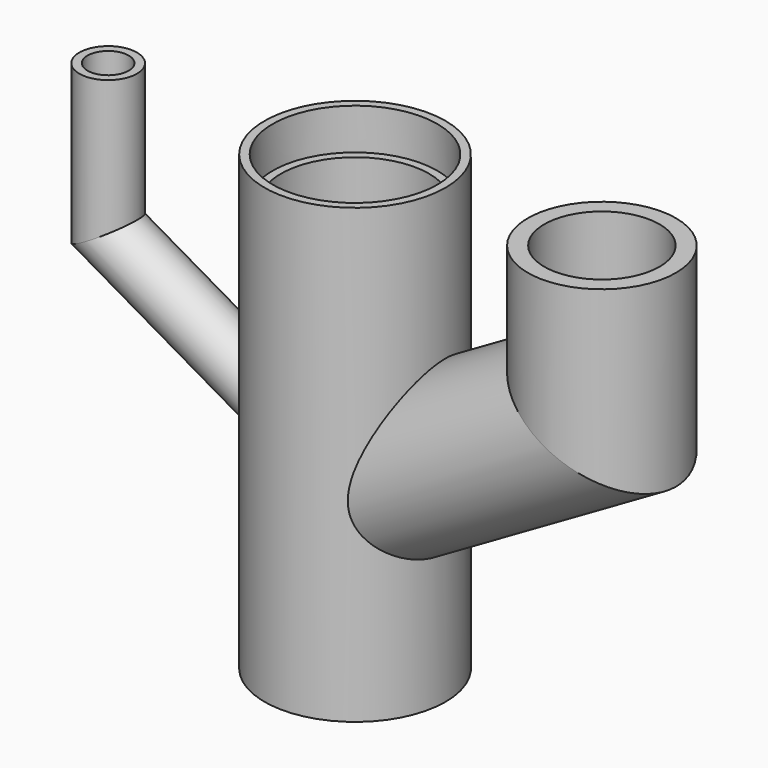
from build123d import *

# Parameters (mm, degrees)
F1_R      = 22
F1_R_2    = 18
F4_R      = 20
F5_DEPTH  = 30
F7_R      = 20
F7_R_2    = 18
F8_DEPTH  = 10
F9_R      = 14
F1_R_3    = 7
F6_R      = 18
F12_DEPTH = 110.0010001
F13_R     = 5


with BuildPart() as f2:
    # F2: sweep along a path in F0
    with BuildLine(Plane.XZ) as f2_path:
        Line((0, 0), (0, -70))
        Line((0, -70), (0, -110))
    # F1 (on Top) → F2 (sweep)
    with BuildSketch(Plane.XY):
        Circle(F1_R)
    sweep(path=f2_path.line)

    # F3: sweep along a path in F0
    with BuildLine(Plane.XZ) as f3_path:
        Line((60, 0), (60, -35.3589838486))
        Line((60, -35.3589838486), (0, -70))
    # F1 (on Top) → F3 (sweep)
    with BuildSketch(Plane.XY):
        with Locations((60, 0)):
            Circle(F1_R_2)
    sweep(path=f3_path.line, transition=Transition.RIGHT)

    # F4 (on face) → F5 (cut)
    with BuildSketch(Plane(origin=(0, 0, -110), x_dir=(1, 0, 0), z_dir=(0, 0, -1))):
        Circle(F4_R)
    extrude(amount=-F5_DEPTH, mode=Mode.SUBTRACT)

    # F7 (on face) → F8 (cut)
    with BuildSketch(Plane.XY):
        Circle(F7_R)
        Circle(F7_R_2, mode=Mode.SUBTRACT)
    extrude(amount=-F8_DEPTH, mode=Mode.SUBTRACT)

    # F10: sweep along a path in F0
    with BuildLine(Plane.XZ) as f10_path:
        Line((60, 0), (60, -35.3589838486))
        Line((60, -35.3589838486), (0, -70))
    # F9 (on face) → F10 (sweep, cut)
    with BuildSketch(Plane.XY):
        with Locations((60, 0)):
            Circle(F9_R)
    sweep(path=f10_path.line, transition=Transition.RIGHT, mode=Mode.SUBTRACT)

    # F11: sweep along a path in F0
    with BuildLine(Plane.XZ) as f11_path:
        Line((-60, 0), (-60, -35.3589838486))
        Line((-60, -35.3589838486), (0, -70))
    # F1 (on Top) → F11 (sweep)
    with BuildSketch(Plane.XY):
        with Locations((-60, 0)):
            Circle(F1_R_3)
    sweep(path=f11_path.line, transition=Transition.RIGHT)

    # F6 (on face) → F12 (cut, through all)
    with BuildSketch(Plane.XY):
        Circle(F6_R)
    extrude(amount=-F12_DEPTH, mode=Mode.SUBTRACT)

    # F14: sweep along a path in F0
    with BuildLine(Plane.XZ) as f14_path:
        Line((-60, 0), (-60, -35.3589838486))
        Line((-60, -35.3589838486), (0, -70))
    # F13 (on face) → F14 (sweep, cut)
    with BuildSketch(Plane.XY):
        with Locations((-60, 0)):
            Circle(F13_R)
    sweep(path=f14_path.line, transition=Transition.RIGHT, mode=Mode.SUBTRACT)


solid = f2.part
